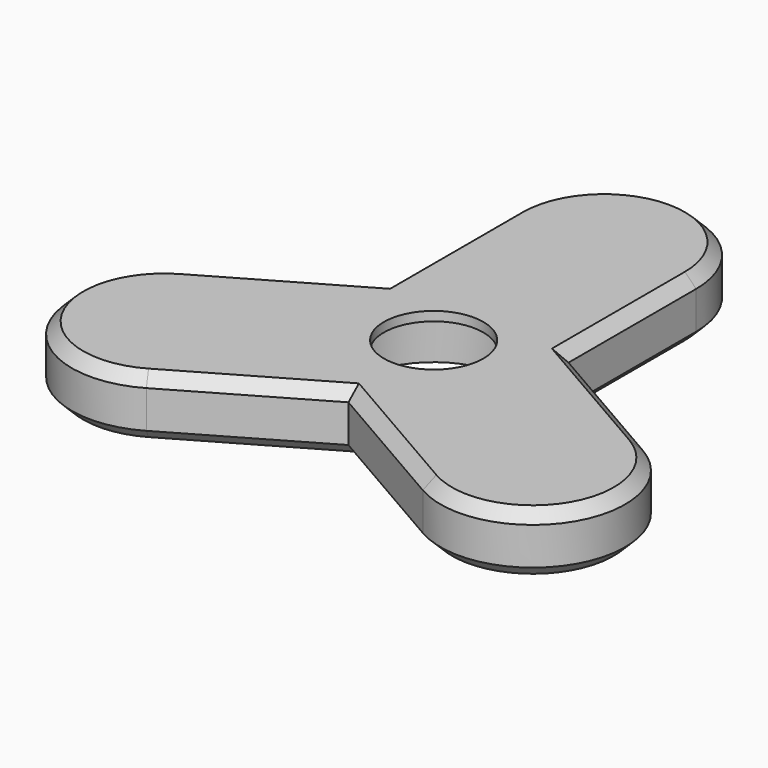
from build123d import *

# Parameters (mm, degrees)
F0_R     = 11.1
F0_R_2   = 7
F1_DEPTH = 8.5
F2_DEPTH = 7.9
F3_DEPTH = 7.2
F4_COUNT = 3
F5_SIZE  = 1.6


with BuildPart() as f1:
    # F0 (on Top) → F1 (new body)
    with BuildSketch(Plane.XY):
        with BuildLine():
            ThreePointArc((-13, 0), (0, 13), (13, 0))
            Line((13, 0), (13, 30))
            ThreePointArc((13, 30), (0, 17), (-13, 30))
            Line((-13, 30), (-13, 0))
        make_face()
        with BuildLine():
            ThreePointArc((-13, 30), (0, 17), (13, 30))
            ThreePointArc((13, 30), (0, 43), (-13, 30))
        make_face()
        Polygon((4.9074772881, 38.5), (9.8149545762, 30), (4.9074772881, 21.5), (-4.9074772881, 21.5), (-9.8149545762, 30), (-4.9074772881, 38.5), align=None, mode=Mode.SUBTRACT)
        Polygon((4.9074772881, 21.5), (9.8149545762, 30), (4.9074772881, 38.5), (-4.9074772881, 38.5), (-9.8149545762, 30), (-4.9074772881, 21.5), align=None)
        with BuildLine():
            ThreePointArc((-13, 0), (0, -13), (13, 0))
            ThreePointArc((13, 0), (0, 13), (-13, 0))
        make_face()
        Circle(F0_R, mode=Mode.SUBTRACT)
        Circle(F0_R)
        Circle(F0_R_2, mode=Mode.SUBTRACT)
    extrude(amount=F1_DEPTH)

    # F0 (on Top) → F2 (cut)
    with BuildSketch(Plane.XY):
        Polygon((4.9074772881, 21.5), (9.8149545762, 30), (4.9074772881, 38.5), (-4.9074772881, 38.5), (-9.8149545762, 30), (-4.9074772881, 21.5), align=None)
    extrude(amount=F2_DEPTH, mode=Mode.SUBTRACT)

    # F0 (on Top) → F3 (cut)
    with BuildSketch(Plane.XY):
        Circle(F0_R)
        Circle(F0_R_2, mode=Mode.SUBTRACT)
    extrude(amount=F3_DEPTH, mode=Mode.SUBTRACT)

    # F4: F1 ×3 about axis
    f4_axis = Axis((0, 0, 0), (0, 0, -1))


with BuildPart() as f1_1:
    add(f1.part)
    for i in range(1, F4_COUNT):
        add(f1.part.rotate(f4_axis, i * 360 / F4_COUNT))

    # F5
    f5_edges = [f1_1.edges().sort_by_distance(p)[0] for p in [
        (-9.740381, -20.634719, 0),
        (-37.239092, -21.5, 0),
        (-22.740381, 1.881942, 0),
        (22.740381, 1.881942, 0),
        (37.239092, -21.5, 0),
        (9.740381, -20.634719, 0),
        (-13, 18.752777, 0),
        (13, 18.752777, 0),
        (0, 43, 0),
        (13, 18.752777, 8.5),
        (-9.740381, -20.634719, 8.5),
        (22.740381, 1.881942, 8.5),
    ]]
    chamfer(f5_edges, length=F5_SIZE)


solid = f1_1.part
